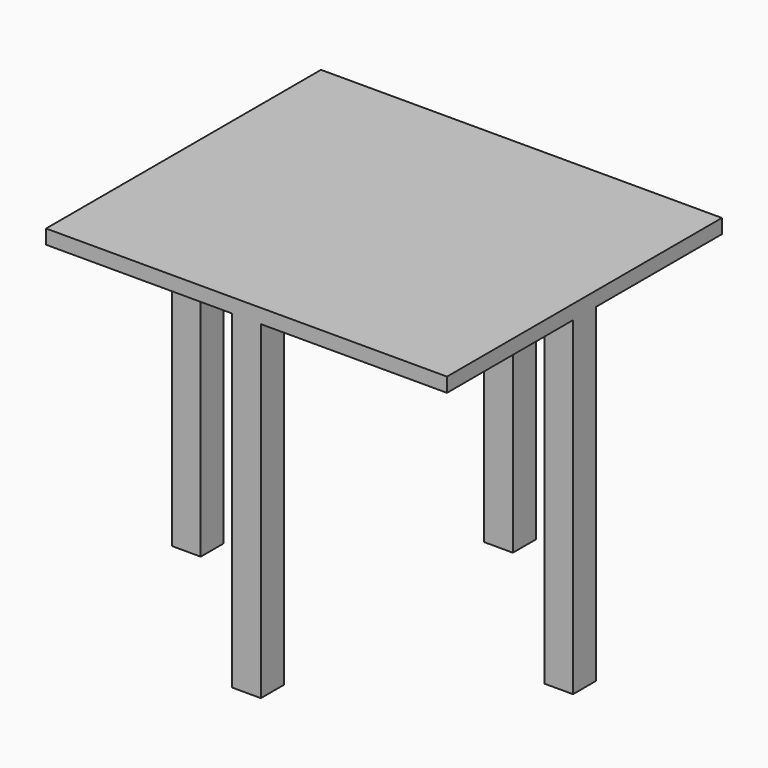
from build123d import *

# Parameters (mm, degrees)
F0_W     = 711.2
F0_H     = 609.6
F1_DEPTH = 25.4
F2_W     = 50.8
F2_H     = 50.8
F3_DEPTH = 584.2


with BuildPart() as f1:
    # F0 (on Top) → F1 (new body)
    with BuildSketch(Plane.XY):
        with Locations((355.6, 304.8)):
            Rectangle(F0_W, F0_H)
    extrude(amount=F1_DEPTH)

    # F2 (on face) → F3 (join)
    with BuildSketch(Plane(origin=(0, 0, 0), x_dir=(1, 0, 0), z_dir=(0, 0, -1))):
        Polygon((50.8, -279.4), (0, -279.4), (0, -304.8), (0, -330.2), (50.8, -330.2), align=None)
        with Locations((685.8, -304.8)):
            Rectangle(F2_W, F2_H)
        with Locations((355.6, -584.2)):
            Rectangle(F2_W, F2_H)
        with Locations((355.6, -25.4)):
            Rectangle(F2_W, F2_H)
    extrude(amount=F3_DEPTH)


solid = f1.part
